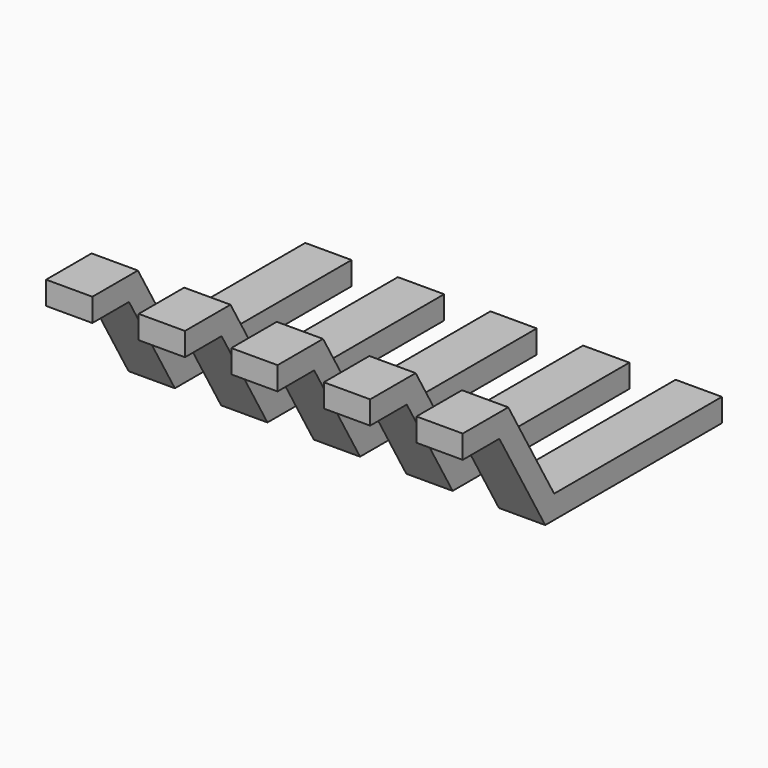
from build123d import *

# Parameters (mm, degrees)
PAD_DEPTH     = 0.5
ARRAY_X_COUNT = 5
ARRAY_X_PITCH = 1


with BuildPart() as array:
    # Sketch → Pad (new body)
    with BuildSketch(Plane.YZ):
        Polygon((0.00032, 0.000166), (2.385618, 0.000166), (3.005131, 1.073193), (3.499339, 1.073193), (3.499339, 1.323193), (2.885058, 1.323193), (2.265545, 0.250166), (0.00032, 0.250166), align=None)
    extrude(amount=PAD_DEPTH)

    # Array X: Array ×5


with BuildPart() as array_1:
    add(array.part)
    with Locations(*[(i * ARRAY_X_PITCH, 0, 0) for i in range(1, ARRAY_X_COUNT)]):
        add(array.part)


with BuildPart() as part_mirroring:
    # Part__Mirroring: instance of Array
    add(array_1.part.mirror(Plane(origin=(0, 0, 0), x_dir=(1, 0, 0), z_dir=(0, 1, 0))))


with BuildPart() as part_mirroring_1:
    # Part__Mirroring placement: moved
    add(part_mirroring.part.moved(Location((0, 13.3, 0))))


solid = part_mirroring_1.part
